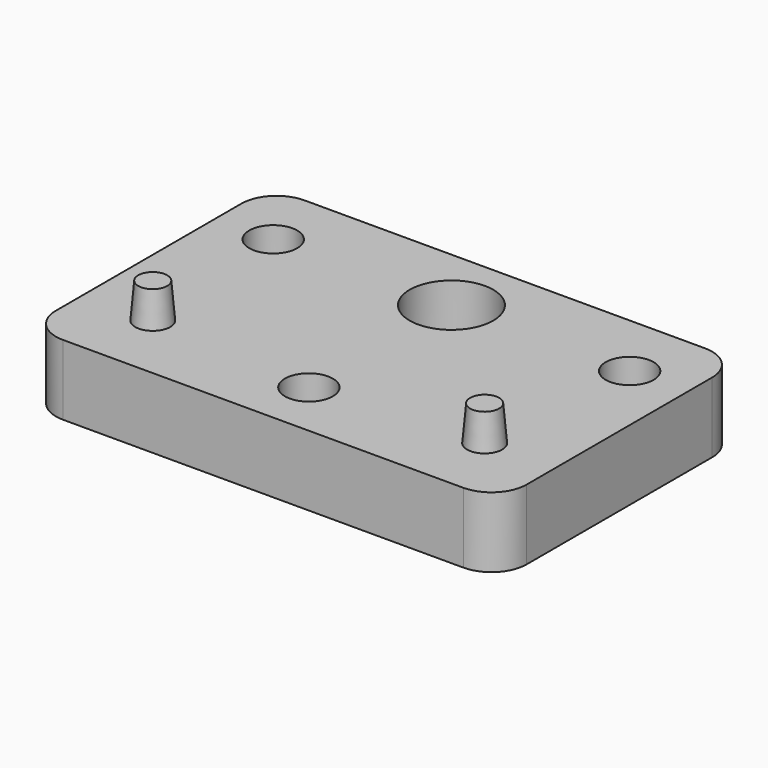
from build123d import *

# Parameters (mm, degrees)
F0_W     = 29.9564684167
F0_H     = 43
F0_R     = 5.425
F0_R_2   = 5.95
F1_DEPTH = 10
F0_W_2   = 18.5217657917
F2_DEPTH = 10
F0_R_3   = 3.415
F3_DEPTH = 10
F4_DEPTH = 10
F6_R     = 2.5
F7_DEPTH = 5
F7_TAPER = 5
F8_R     = 5


with BuildPart() as f1:
    # F0 (on Top) → F1 (new body)
    with BuildSketch(Plane.XY):
        with Locations((0, -12)):
            Rectangle(F0_W, F0_H)
        with Locations((0, -25.365)):
            Circle(F0_R, mode=Mode.SUBTRACT)
        Circle(F0_R_2, mode=Mode.SUBTRACT)
    extrude(amount=F1_DEPTH)

    # F0 (on Top) → F2 (join)
    with BuildSketch(Plane.XY):
        with Locations((-24.2391171042, -12)):
            Rectangle(F0_W_2, F0_H)
        with Locations((-25.365, 0)):
            Circle(F0_R, mode=Mode.SUBTRACT)
        with Locations((24.2391171042, -12)):
            Rectangle(F0_W_2, F0_H)
        with Locations((25.365, 0)):
            Circle(F0_R, mode=Mode.SUBTRACT)
    extrude(amount=F2_DEPTH)

    # F0 (on Top) → F3 (join)
    with BuildSketch(Plane.XY):
        with Locations((-25.365, 0)):
            Circle(F0_R)
        with Locations((-25.365, 0)):
            Circle(F0_R_3, mode=Mode.SUBTRACT)
        with Locations((25.365, 0)):
            Circle(F0_R)
        with Locations((25.365, 0)):
            Circle(F0_R_3, mode=Mode.SUBTRACT)
        with Locations((0, -25.365)):
            Circle(F0_R)
        with Locations((0, -25.365)):
            Circle(F0_R_3, mode=Mode.SUBTRACT)
    extrude(amount=F3_DEPTH)

    # F0 (on Top) → F4 (join)
    with BuildSketch(Plane.XY):
        with Locations((24.2391171042, -12)):
            Rectangle(F0_W_2, F0_H)
        with Locations((25.365, 0)):
            Circle(F0_R, mode=Mode.SUBTRACT)
        with Locations((-24.2391171042, -12)):
            Rectangle(F0_W_2, F0_H)
        with Locations((-25.365, 0)):
            Circle(F0_R, mode=Mode.SUBTRACT)
    extrude(amount=F4_DEPTH)

    # F6 (on face) → F7 (join)
    with BuildSketch(Plane.XY.offset(10)):
        with Locations((-23.62, -23.62)):
            Circle(F6_R)
        with Locations((23.62, -23.62)):
            Circle(F6_R)
    extrude(amount=F7_DEPTH, taper=F7_TAPER)

    # F8
    f8_edges = [f1.edges().sort_by_distance(p)[0] for p in [
        (-33.5, -33.5, 5),
        (33.5, -33.5, 5),
        (33.5, 9.5, 5),
        (-33.5, 9.5, 5),
    ]]
    fillet(f8_edges, radius=F8_R)


solid = f1.part
